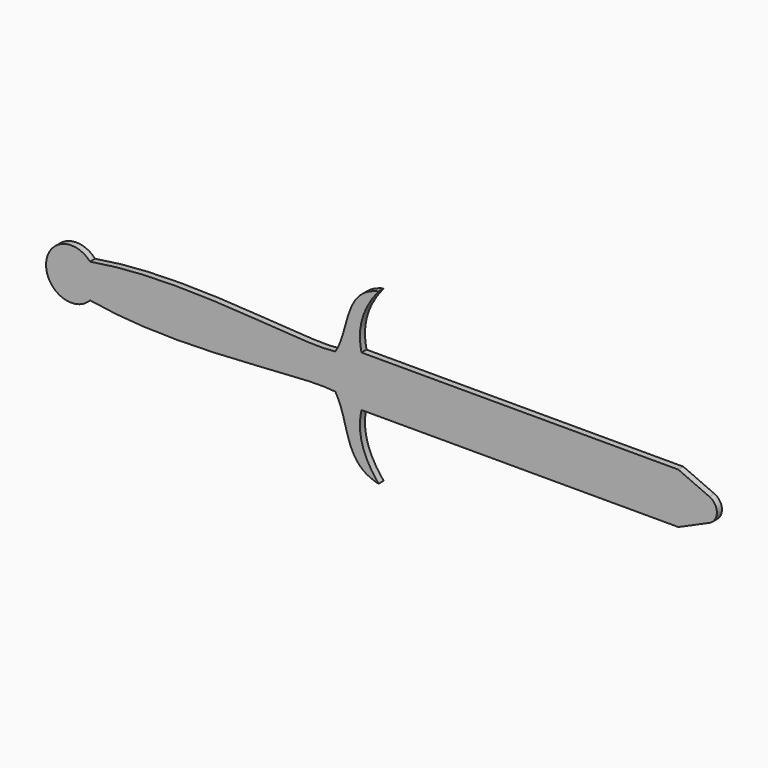
from build123d import *

# Parameters (mm, degrees)
F1_DEPTH = 3.175


with BuildPart() as f1:
    # F0 (on Front) → F1 (new body)
    with BuildSketch(Plane.XZ):
        with BuildLine():
            ThreePointArc((-135.872309, 22.099007), (-133.413309, 18.129726), (-132.554968, 13.540051))
            ThreePointArc((-132.554968, 13.540051), (-133.413309, 8.950376), (-135.872309, 4.981096))
            add(Edge.make_bspline(
                [(-135.872309, 4.981096), (-87.536557, -3.364965), (-31.740982, 7.211874), (-12.702424, 4.6734)],
                knots=[0, 0, 0, 0, 123.170269, 123.170269, 123.170269, 123.170269], degree=3))
            add(Edge.make_bspline(
                [(-12.702424, 4.6734), (-5.460468, -6.545366), (-8.708945, -25.042371), (9.023443, -28.982897)],
                knots=[0, 0, 0, 0, 40.059451, 40.059451, 40.059451, 40.059451], degree=3))
            add(Edge.make_bspline(
                [(9.023443, -28.982897), (1.651505, -20.129771), (-2.09138, -10.224599), (0.438337, 0.840051)],
                knots=[0, 0, 0, 0, 30.962421, 30.962421, 30.962421, 30.962421], degree=3))
            Line((0.438337, 0.840051), (159.545032, 0.840051))
            Line((159.545032, 0.840051), (175.11551, 7.733674))
            ThreePointArc((175.11551, 7.733674), (178.894813, 13.540051), (175.11551, 19.346429))
            Line((175.11551, 19.346429), (159.545032, 26.240051))
            Line((159.545032, 26.240051), (0.438337, 26.240051))
            add(Edge.make_bspline(
                [(9.023443, 56.063), (1.651505, 47.209873), (-2.09138, 37.304702), (0.438337, 26.240051)],
                knots=[0, 0, 0, 0, 30.962421, 30.962421, 30.962421, 30.962421], degree=3))
            add(Edge.make_bspline(
                [(-12.702424, 22.406703), (-5.460468, 33.625469), (-8.708945, 52.122474), (9.023443, 56.063)],
                knots=[0, 0, 0, 0, 40.059451, 40.059451, 40.059451, 40.059451], degree=3))
            add(Edge.make_bspline(
                [(-135.872309, 22.099007), (-87.536557, 30.445068), (-31.740982, 19.868229), (-12.702424, 22.406703)],
                knots=[0, 0, 0, 0, 123.170269, 123.170269, 123.170269, 123.170269], degree=3))
        make_face()
        with BuildLine():
            ThreePointArc((-135.872309, 4.981096), (-133.413309, 8.950376), (-132.554968, 13.540051))
            ThreePointArc((-132.554968, 13.540051), (-133.413309, 18.129726), (-135.872309, 22.099007))
            ThreePointArc((-135.872309, 22.099007), (-157.954968, 13.540051), (-135.872309, 4.981096))
        make_face()
    extrude(amount=F1_DEPTH)


solid = f1.part
